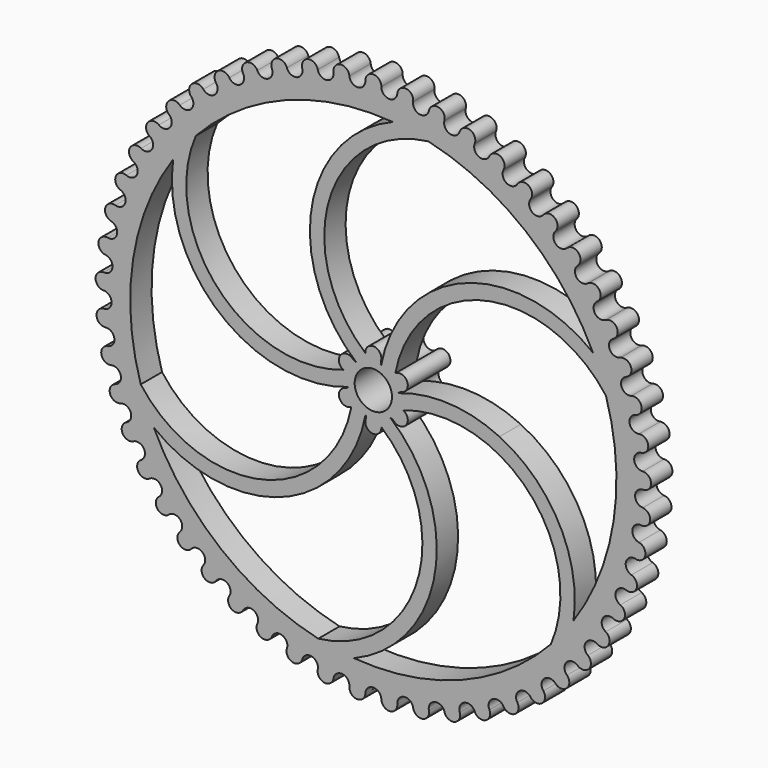
from build123d import *

# Parameters (mm, degrees)
F1_DEPTH = 5
F3_R     = 45.5903147777
F4_DEPTH = 10
F5_R     = 3.5
F6_DEPTH = 10
F8_DEPTH = 5


with BuildPart() as f1:
    # F0 (on Front) → F1 (new body)
    with BuildSketch(Plane.XZ):
        with BuildLine():
            ThreePointArc((4.4945655726, 50.411534519), (2.9209083277, 49.0246050131), (1.4993410677, 50.5670437005))
            ThreePointArc((1.4993410677, 50.5670437005), (0.0113585777, 52.1114569936), (-1.4998423814, 50.5897553238))
            Line((-1.4998423814, 50.5897553238), (-1.4993133902, 50.5892873206))
            ThreePointArc((-1.4993133902, 50.5892873206), (-2.8978887355, 49.0259711074), (-4.4919072658, 50.3894502983))
            ThreePointArc((-4.4919072658, 50.3894502983), (-6.1521084071, 51.7470350954), (-7.47272591, 50.0572795741))
            Line((-7.47272591, 50.0572795741), (-7.4721452795, 50.0568774213))
            ThreePointArc((-7.4721452795, 50.0568774213), (-8.6760057931, 48.3391200336), (-10.4200990678, 49.5044994689))
            ThreePointArc((-10.4200990678, 49.5044994689), (-12.2292132754, 50.6561982553), (-13.3407087473, 48.8221093462))
            Line((-13.3407087473, 48.8221093462), (-13.3400846283, 48.821778689))
            ThreePointArc((-13.3400846283, 48.821778689), (-14.3323307474, 46.9736936752), (-16.20201552, 47.9246139822))
            ThreePointArc((-16.20201552, 47.9246139822), (-18.134646796, 48.8542594315), (-19.0214172769, 46.9015837224))
            Line((-19.0214172769, 46.9015837224), (-19.0207584307, 46.9013292026))
            ThreePointArc((-19.0207584307, 46.9013292026), (-19.7874611948, 44.9488596252), (-21.7564911895, 45.6719719672))
            ThreePointArc((-21.7564911895, 45.6719719672), (-23.7855096273, 46.3665138951), (-24.4351068034, 44.3226626727))
            Line((-24.4351068034, 44.3226626727), (-24.4344224787, 44.3224878632))
            ThreePointArc((-24.4344224787, 44.3224878632), (-24.9648190617, 42.2930421152), (-27.0055534135, 42.77819558))
            ThreePointArc((-27.0055534135, 42.77819558), (-29.1024760419, 43.2278841403), (-29.5057809928, 41.1215485955))
            Line((-29.5057809928, 41.1215485955), (-29.5050807961, 41.1214559502))
            ThreePointArc((-29.5050807961, 41.1214559502), (-29.7917255926, 39.0435230014), (-31.8755168646, 39.2839070978))
            ThreePointArc((-31.8755168646, 39.2839070978), (-34.0109074863, 39.4824296488), (-34.1622586946, 37.3431781156))
            Line((-34.1622586946, 37.3431781156), (-34.161552455, 37.3431689351))
            ThreePointArc((-34.161552455, 37.3431689351), (-34.2004216004, 35.2459184091), (-36.2980179308, 35.2381586713))
            ThreePointArc((-36.2980179308, 35.2381586713), (-38.4419003424, 35.1827283916), (-38.3391731689, 33.0405912722))
            Line((-38.3391731689, 33.0405912722), (-38.3384708005, 33.0406656853))
            ThreePointArc((-38.3384708005, 33.0406656853), (-38.1290186571, 30.9535383824), (-40.2109743915, 30.6977437401))
            ThreePointArc((-40.2109743915, 30.6977437401), (-42.3332531834, 30.3891387493), (-41.9778896924, 28.2741869532))
            Line((-41.9778896924, 28.2741869532), (-41.9772010549, 28.2743439154))
            ThreePointArc((-41.9772010549, 28.2743439154), (-41.5223678718, 26.2266385277), (-43.5594569154, 25.7263997771))
            ThreePointArc((-43.5594569154, 25.7263997771), (-45.6303399453, 25.1689522128), (-45.0273286612, 23.1108750272))
            Line((-45.0273286612, 23.1108750272), (-45.0266634217, 23.111112335))
            ThreePointArc((-45.0266634217, 23.111112335), (-44.3328340597, 21.1315741577), (-46.2964601476, 20.3939135541))
            ThreePointArc((-46.2964601476, 20.3939135541), (-48.2868767573, 19.5954487582), (-47.4446826368, 17.6231370755))
            Line((-47.4446826368, 17.6231370755), (-47.4440501337, 17.6234513976))
            ThreePointArc((-47.4440501337, 17.6234513976), (-46.5209644362, 15.7398688074), (-48.3835625624, 14.7751414889))
            ThreePointArc((-48.3835625624, 14.7751414889), (-50.2655716658, 13.7468681568), (-49.1960172682, 11.8880089096))
            Line((-49.1960172682, 11.8880089096), (-49.1954263804, 11.8883958337))
            ThreePointArc((-49.1954263804, 11.8883958337), (-48.0560424472, 10.1272102013), (-49.791465817, 8.9489588247))
            ThreePointArc((-49.791465817, 8.9489588247), (-51.5386481316, 7.70531166), (-50.2567476562, 5.9859991574))
            Line((-50.2567476562, 5.9859991574), (-50.2562066785, 5.9864532519))
            ThreePointArc((-50.2562066785, 5.9864532519), (-48.9165189624, 4.3723877631), (-50.5004060357, 2.9971523949))
            ThreePointArc((-50.5004060357, 2.9971523949), (-52.0882349518, 1.5555894778), (-50.6119834712, -4.09014e-05))
            Line((-50.6119834712, -4.09014e-05), (-50.6114999978, 0.000473989))
            ThreePointArc((-50.6114999978, 0.000473989), (-49.0903147776, -1.4438134149), (-50.5004312519, -2.9967274847))
            ThreePointArc((-50.5004312519, -2.9967274847), (-51.906617132, -4.6159697708), (-50.2567379811, -5.9860803861))
            Line((-50.2567379811, -5.9860803861), (-50.2563187989, -5.9855119277))
            ThreePointArc((-50.2563187989, -5.9855119277), (-48.5749901808, -7.2397466175), (-49.7915411117, -8.9485398792))
            ThreePointArc((-49.7915411117, -8.9485398792), (-50.9963441884, -10.7227309222), (-49.1959980539, -11.8880884238))
            Line((-49.1959980539, -11.8880884238), (-49.1956490472, -11.8874743774))
            ThreePointArc((-49.1956490472, -11.8874743774), (-47.3777791994, -12.9340496472), (-48.3836868787, -14.7747343894))
            ThreePointArc((-48.3836868787, -14.7747343894), (-49.3701943578, -16.678968436), (-47.4446541529, -17.623213759))
            Line((-47.4446541529, -17.623213759), (-47.4443802211, -17.6225627444))
            ThreePointArc((-47.4443802211, -17.6225627444), (-45.5154880515, -18.4467869717), (-46.2966317402, -20.3935240153))
            ThreePointArc((-46.2966317402, -20.3935240153), (-47.0509952192, -22.4010697936), (-45.0272913077, -23.1109478037))
            Line((-45.0272913077, -23.1109478037), (-45.0270962961, -23.1102689597))
            ThreePointArc((-45.0270962961, -23.1102689597), (-43.0142592225, -23.700571843), (-43.5596733756, -25.7260332671))
            ThreePointArc((-43.5596733756, -25.7260332671), (-44.0713032448, -27.8087092351), (-41.9778439935, -28.2742548009))
            Line((-41.9778439935, -28.2742548009), (-41.9777306397, -28.2735576571))
            ThreePointArc((-41.9777306397, -28.2735576571), (-39.9092044824, -28.6216526379), (-40.2112326807, -30.6974054041))
            ThreePointArc((-40.2112326807, -30.6974054041), (-40.4729467783, -32.8259753564), (-38.3391197662, -33.0406532388))
            Line((-38.3391197662, -33.0406532388), (-38.3390896615, -33.0399475814))
            ThreePointArc((-38.3390896615, -33.0399475814), (-36.2439119935, -33.1409481692), (-36.2983144232, -35.2378532588))
            ThreePointArc((-36.2983144232, -35.2378532588), (-36.3064388568, -37.3824367391), (-34.1621983377, -37.3432333311))
            Line((-34.1621983377, -37.3432333311), (-34.1622519047, -37.3425290661))
            ThreePointArc((-34.1622519047, -37.3425290661), (-32.0698344278, -37.195017434), (-31.875847398, -39.283638896))
            ThreePointArc((-31.875847398, -39.283638896), (-31.6302681184, -41.4141306533), (-29.5057145291, -41.1215962849))
            Line((-29.5057145291, -41.1215962849), (-29.5058510157, -41.1209032985))
            ThreePointArc((-29.5058510157, -41.1209032985), (-27.4455666847, -40.7269501866), (-27.0059133481, -42.7779683539))
            ThreePointArc((-27.0059133481, -42.7779683539), (-26.5100777501, -44.864460954), (-24.4350351658, -44.3227021664))
            Line((-24.4350351658, -44.3227021664), (-24.4352526562, -44.3220301868))
            ThreePointArc((-24.4352526562, -44.3220301868), (-22.4360233468, -43.6871658331), (-21.7568754724, -45.6717889066))
            ThreePointArc((-21.7568754724, -45.6717889066), (-21.017744001, -47.6849925671), (-19.0213414711, -46.9016144661))
            Line((-19.0213414711, -46.9016144661), (-19.021636912, -46.9009729263))
            ThreePointArc((-19.021636912, -46.9009729263), (-17.1115274214, -46.0341094348), (-16.2024187568, -47.9244776568))
            ThreePointArc((-16.2024187568, -47.9244776568), (-15.2303671976, -49.8361314113), (-13.3406298373, -48.8221309083))
            Line((-13.3406298373, -48.8221309083), (-13.3409990816, -48.8215288142))
            ThreePointArc((-13.3409990816, -48.8215288142), (-11.54682316, -47.734835048), (-10.420515598, -49.5044117925))
            ThreePointArc((-10.420515598, -49.5044117925), (-9.2291894241, -51.2876802126), (-7.4726450037, -50.057291652))
            Line((-7.4726450037, -50.057291652), (-7.4730828678, -50.0567374556))
            ThreePointArc((-7.4730828678, -50.0567374556), (-5.8200268124, -48.7654682132), (-4.4923312422, -50.3894125016))
            ThreePointArc((-4.4923312422, -50.3894125016), (-3.0984540617, -52.0192624077), (-1.4997606145, -50.5897577479))
            Line((-1.4997606145, -50.5897577479), (-1.5002609519, -50.5892592289))
            ThreePointArc((-1.5002609519, -50.5892592289), (-0.0115300459, -49.1115410999), (1.4989155969, -50.5670563142))
            ThreePointArc((1.4989155969, -50.5670563142), (3.0757768038, -52.0206081863), (4.4941771262, -50.412054539))
            Line((4.4941771262, -50.412054539), (4.4936213393, -50.4116186956))
            ThreePointArc((4.4936213393, -50.4116186956), (5.7971285771, -48.7681956033), (7.4691209467, -50.0348495005))
            ThreePointArc((7.4691209467, -50.0348495005), (9.2068305052, -51.2916986564), (10.4250264715, -49.5266765891))
            Line((10.4250264715, -49.5266765891), (10.424423037, -49.5263095394))
            ThreePointArc((10.424423037, -49.5263095394), (11.5244082223, -47.7402515418), (13.3344762109, -48.8002630775))
            ThreePointArc((13.3344762109, -48.8002630775), (15.2086404879, -49.8427661103), (16.209531297, -47.9460526636))
            Line((16.209531297, -47.9460526636), (16.2088886858, -47.9457595604))
            ThreePointArc((16.2088886858, -47.9457595604), (17.0899104379, -46.0421389965), (19.0126446586, -46.8806279324))
            ThreePointArc((19.0126446586, -46.8806279324), (20.9969544959, -47.6941503846), (21.7664898349, -45.6923712578))
            Line((21.7664898349, -45.6923712578), (21.7658170678, -45.6921562155))
            ThreePointArc((21.7658170678, -45.6921562155), (22.4155077725, -43.6976957453), (24.4239172516, -44.3028915347))
            ThreePointArc((24.4239172516, -44.3028915347), (26.4905172887, -44.8760133344), (27.0178945682, -42.7972691184))
            Line((27.0178945682, -42.7972691184), (27.0172010895, -42.7971351558))
            ThreePointArc((27.0172010895, -42.7971351558), (27.4264405134, -40.7398326323), (29.4923315842, -41.1032396531))
            ThreePointArc((29.4923315842, -41.1032396531), (31.6122112867, -41.4279154265), (31.8900272857, -39.3013871334))
            Line((31.8900272857, -39.3013871334), (31.8893228303, -39.3013361309))
            ThreePointArc((31.8893228303, -39.3013361309), (32.052366149, -37.210071572), (34.1467382294, -37.3265883861))
            ThreePointArc((34.1467382294, -37.3265883861), (36.290139133, -37.398260397), (36.3144939239, -35.2537998227))
            Line((36.3144939239, -35.2537998227), (36.3137883808, -35.2538324964))
            ThreePointArc((36.3137883808, -35.2538324964), (36.2283468235, -33.1579626724), (38.3217995204, -33.025953639))
            ThreePointArc((38.3217995204, -33.025953639), (40.4586329749, -32.8436157696), (40.2291846698, -30.7113264398))
            Line((40.2291846698, -30.7113264398), (40.2284879432, -30.711442331))
            ThreePointArc((40.2284879432, -30.711442331), (39.8957609221, -28.6403886599), (41.9589067486, -28.2617068967))
            ThreePointArc((41.9589067486, -28.2617068967), (44.0591762962, -27.8279187709), (43.5791458464, -25.7377333538))
            Line((43.5791458464, -25.7377333538), (43.5784677169, -25.7379308356))
            ThreePointArc((43.5784677169, -25.7379308356), (43.00312599, -23.7207663712), (45.007002901, -23.1007277399))
            ThreePointArc((45.007002901, -23.1007277399), (47.0412253612, -22.4215787921), (46.3173513419, -20.4028389092))
            Line((46.3173513419, -20.4028389092), (46.316701329, -20.4031152095))
            ThreePointArc((46.316701329, -20.4031152095), (45.5068214329, -18.4681565192), (47.4232993894, -17.6154650031))
            ThreePointArc((47.4232993894, -17.6154650031), (49.3629187378, -16.7004889959), (48.4053627536, -14.78153333))
            Line((48.4053627536, -14.78153333), (48.4047499819, -14.78188457))
            ThreePointArc((48.4047499819, -14.78188457), (47.3717008552, -12.9562942324), (49.1738767074, -11.8829197513))
            ThreePointArc((49.1738767074, -11.8829197513), (50.9916649402, -10.744960942), (49.813868978, -8.9527274243))
            Line((49.813868978, -8.9527274243), (49.8133020496, -8.9531486734))
            ThreePointArc((49.8133020496, -8.9531486734), (48.5715854374, -7.262553975), (50.2341605869, -5.9835643538))
            ThreePointArc((50.2341605869, -5.9835643538), (51.9045999419, -4.6385971898), (50.5230976753, -2.9982448502))
            Line((50.5230976753, -2.9982448502), (50.5225845486, -2.998730195))
            ThreePointArc((50.5225845486, -2.998730195), (49.0896314304, -1.4668633796), (50.5892669665, -0.0002128289))
            ThreePointArc((50.5892669665, -0.0002128289), (52.0889081367, 1.532882299), (50.5230928292, 2.9983265094))
            Line((50.5230928292, 2.9983265094), (50.5226407074, 2.997783882))
            ThreePointArc((50.5226407074, 2.997783882), (48.9185666039, 4.3494187622), (50.2342109308, 5.9831416836))
            ThreePointArc((50.2342109308, 5.9831416836), (51.5420022416, 7.6828434805), (49.8138545079, 8.9528079371))
            Line((49.8138545079, 8.9528079371), (49.8134697377, 8.9522156445))
            ThreePointArc((49.8134697377, 8.9522156445), (48.060792333, 10.1046445987), (49.1739766885, 11.8825060021))
            ThreePointArc((49.1739766885, 11.8825060021), (50.2715596164, 13.7249543805), (48.4053388625, 14.7816115663))
            Line((48.4053388625, 14.7816115663), (48.4050268453, 14.7809779229))
            ThreePointArc((48.4050268453, 14.7809779229), (46.5283498884, 15.7180233747), (47.4234476041, 17.6150659832))
            ThreePointArc((47.4234476041, 17.6150659832), (48.2954144909, 19.5743970065), (46.3173183653, 20.4029137707))
            Line((46.3173183653, 20.4029137707), (46.3170834811, 20.4022476716))
            ThreePointArc((46.3170834811, 20.4022476716), (44.3427514028, 21.1107555568), (45.0071972688, 23.1003490505))
            ThreePointArc((45.0071972688, 23.1003490505), (45.6413076108, 25.1490580061), (43.5791042471, 25.7378037896))
            Line((43.5791042471, 25.7378037896), (43.5789497932, 25.7371145852))
            ThreePointArc((43.5789497932, 25.7371145852), (41.5346778879, 26.2071390062), (41.9591445409, 28.2613538537))
            ThreePointArc((41.9591445409, 28.2613538537), (42.3464968188, 30.3706813587), (40.2291350318, 30.7113914612))
            Line((40.2291350318, 30.7113914612), (40.2290631764, 30.7106888265))
            ThreePointArc((40.2290631764, 30.7106888265), (38.1435485407, 30.9356316708), (38.3220773992, 33.0256311985))
            ThreePointArc((38.3220773992, 33.0256311985), (38.4572340361, 35.1659669184), (36.3144369441, 35.2538585168))
            Line((36.3144369441, 35.2538585168), (36.3144486958, 35.2531523153))
            ThreePointArc((36.3144486958, 35.2531523153), (34.2169673836, 35.2298558784), (34.1470522939, 37.3263010743))
            ThreePointArc((34.1470522939, 37.3263010743), (34.0281159868, 39.4675993874), (31.8899637638, 39.3014386763))
            Line((31.8899637638, 39.3014386763), (31.8900589578, 39.3007388215))
            ThreePointArc((31.8900589578, 39.3007388215), (29.810055009, 39.0295301343), (29.4926774256, 41.1029915033))
            ThreePointArc((29.4926774256, 41.1029915033), (29.1213177797, 43.2151932749), (27.017825396, 42.7973127867))
            Line((27.017825396, 42.7973127867), (27.0180026959, 42.796629103))
            ThreePointArc((27.0180026959, 42.796629103), (24.9846748065, 42.2813153409), (24.424290015, 44.3026860305))
            ThreePointArc((24.424290015, 44.3026860305), (23.8057201056, 46.3561405778), (21.7664159834, 45.6924064383))
            Line((21.7664159834, 45.6924064383), (21.7666729003, 45.6917485231))
            ThreePointArc((21.7666729003, 45.6917485231), (19.8085645368, 44.9395635619), (19.0130391113, 46.8804679585))
            ThreePointArc((19.0130391113, 46.8804679585), (18.1559423041, 48.8463492809), (16.209453803, 47.9460788626))
            Line((16.209453803, 47.9460788626), (16.2097867303, 47.9454559516))
            ThreePointArc((16.2097867303, 47.9454559516), (14.3543854419, 46.9669588193), (13.3348868155, 48.8001508796))
            ThreePointArc((13.3348868155, 48.8001508796), (12.2512948709, 50.6508623125), (10.4249464228, 49.5266934387))
            Line((10.4249464228, 49.5266934387), (10.425350687, 49.5261142762))
            ThreePointArc((10.425350687, 49.5261142762), (8.6987022406, 48.3350409276), (7.4695419393, 50.0347866536))
            ThreePointArc((7.4695419393, 50.0347866536), (6.1746661129, 51.7443482654), (4.4940956465, 50.4120618028))
            Line((4.4940956465, 50.4120618028), (4.4945655726, 50.411534519))
        make_face()
    extrude(amount=F1_DEPTH)

    # F3 (on face) → F4 (cut)
    with BuildSketch(Plane(origin=(0, 0, 0), x_dir=(-1, 0, 0), z_dir=(0, 1, 0))):
        Circle(F3_R)
    extrude(amount=-F4_DEPTH, mode=Mode.SUBTRACT)



with BuildPart() as f6:
    # F5 (on face) → F6 (new body)
    with BuildSketch(Plane.XZ.offset(5)):
        with BuildLine():
            ThreePointArc((4.0793788031, 4.0231627895), (2.2254477194, 3.6019987102), (1.4476820214, 5.3367955755))
            ThreePointArc((1.4476820214, 5.3367955755), (0.1149274482, 7.2250907467), (-1.4906849817, 5.5625919857))
            Line((-1.4906849817, 5.5625919857), (-1.4444717777, 5.5444270699))
            ThreePointArc((-1.4444717777, 5.5444270699), (-2.0066985278, 3.7282936149), (-3.8979595325, 3.9221271949))
            ThreePointArc((-3.8979595325, 3.9221271949), (-6.1996484072, 3.7120754631), (-5.5626884614, 1.4903249296))
            Line((-5.5626884614, 1.4903249296), (-5.5238505808, 1.5212642804))
            ThreePointArc((-5.5238505808, 1.5212642804), (-4.2321462472, 0.1262949047), (-5.3456415539, -1.4146683807))
            ThreePointArc((-5.3456415539, -1.4146683807), (-6.3145758554, -3.5130152836), (-4.0720034796, -4.0722670561))
            Line((-4.0720034796, -4.0722670561), (-4.0793788031, -4.0231627895))
            ThreePointArc((-4.0793788031, -4.0231627895), (-2.2254477194, -3.6019987102), (-1.4476820214, -5.3367955755))
            ThreePointArc((-1.4476820214, -5.3367955755), (-0.1149274482, -7.2250907467), (1.4906849817, -5.5625919857))
            Line((1.4906849817, -5.5625919857), (1.4444717777, -5.5444270699))
            ThreePointArc((1.4444717777, -5.5444270699), (2.0066985278, -3.7282936149), (3.8979595325, -3.9221271949))
            ThreePointArc((3.8979595325, -3.9221271949), (6.1996484072, -3.7120754631), (5.5626884614, -1.4903249296))
            Line((5.5626884614, -1.4903249296), (5.5238505808, -1.5212642804))
            ThreePointArc((5.5238505808, -1.5212642804), (4.2321462472, -0.1262949047), (5.3456415539, 1.4146683807))
            ThreePointArc((5.3456415539, 1.4146683807), (6.3145758554, 3.5130152836), (4.0720034796, 4.0722670561))
            Line((4.0720034796, 4.0722670561), (4.0793788031, 4.0231627895))
        make_face()
        Circle(F5_R, mode=Mode.SUBTRACT)
    extrude(amount=-F6_DEPTH)


with BuildPart() as f1_1:
    add(f1.part)

    add(f6.part)  # F8 merges F6
    # F7 (on face) → F8 (join)
    with BuildSketch(Plane.XZ.offset(5)):
        with BuildLine():
            Line((44.9201744841, 11.3093075315), (42.4346639493, 18.5221400091))
            ThreePointArc((42.4346639493, 18.5221400091), (17.3914135302, 23.3450463324), (1.2971957628, 3.5611899993))
            Line((1.2971957628, 3.5611899993), (3.8577247753, 2.3060967073))
            ThreePointArc((3.8577247753, 2.3060967073), (21.1389670022, 21.630441562), (44.9201744841, 11.3093075315))
        make_face()
        with BuildLine():
            Line((12.6659396206, 44.5566660114), (5.1766881943, 46.0105669857))
            ThreePointArc((5.1766881943, 46.0105669857), (-11.5216964113, 26.7339290911), (-2.4354831257, 2.9039994839))
            Line((-2.4354831257, 2.9039994839), (-0.0682759445, 4.4939360098))
            ThreePointArc((-0.0682759445, 4.4939360098), (-8.1630283867, 29.1221032147), (12.6659396206, 44.5566660114))
        make_face()
        with BuildLine():
            Line((-32.2542348635, 33.2473584799), (-37.257975755, 27.4884269766))
            ThreePointArc((-37.257975755, 27.4884269766), (-28.9131099415, 3.3888827587), (-3.7326788885, -0.6571905154))
            Line((-3.7326788885, -0.6571905154), (-3.9260007197, 2.1878393026))
            ThreePointArc((-3.9260007197, 2.1878393026), (-29.3019953889, 7.4916616527), (-32.2542348635, 33.2473584799))
        make_face()
        with BuildLine():
            Line((-44.9201744841, -11.3093075315), (-42.4346639493, -18.5221400091))
            ThreePointArc((-42.4346639493, -18.5221400091), (-17.3914135302, -23.3450463324), (-1.2971957628, -3.5611899993))
            Line((-1.2971957628, -3.5611899993), (-3.8577247753, -2.3060967073))
            ThreePointArc((-3.8577247753, -2.3060967073), (-21.1389670022, -21.630441562), (-44.9201744841, -11.3093075315))
        make_face()
        with BuildLine():
            Line((-12.6659396206, -44.5566660114), (-5.1766881943, -46.0105669857))
            ThreePointArc((-5.1766881943, -46.0105669857), (11.5216964113, -26.7339290911), (2.4354831257, -2.9039994839))
            Line((2.4354831257, -2.9039994839), (0.0682759445, -4.4939360098))
            ThreePointArc((0.0682759445, -4.4939360098), (8.1630283867, -29.1221032147), (-12.6659396206, -44.5566660114))
        make_face()
        with BuildLine():
            Line((23.6497556602, 0), (3.7773354587, 0))
            Line((3.7773354587, 0), (3.9260007197, -2.1878393026))
            ThreePointArc((3.9260007197, -2.1878393026), (29.3019953889, -7.4916616527), (32.2542348635, -33.2473584799))
            Line((32.2542348635, -33.2473584799), (37.257975755, -27.4884269766))
            ThreePointArc((37.257975755, -27.4884269766), (35.2031177936, -11.3930834027), (23.6497556602, 0))
        make_face()
        with BuildLine():
            Line((3.7326788885, 0.6571905154), (3.7773354587, 0))
            Line((3.7773354587, 0), (23.6497556602, 0))
            ThreePointArc((23.6497556602, 0), (13.7600067814, 2.4133573797), (3.7326788885, 0.6571905154))
        make_face()
    extrude(amount=-F8_DEPTH)


solid = f1_1.part
